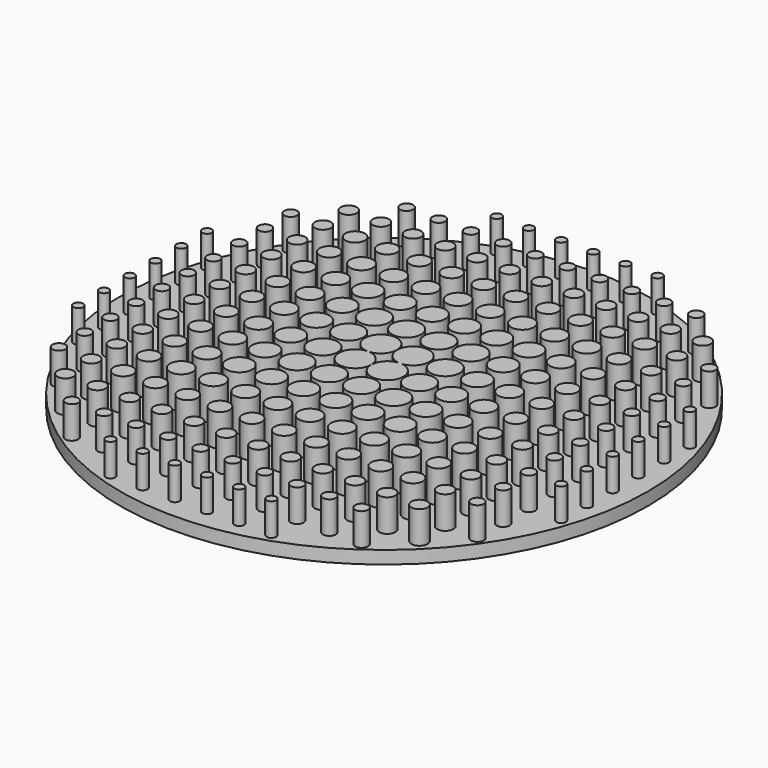
from build123d import *

# Parameters (mm, degrees)
F0_R     = 82
F1_DEPTH = 4
F2_R     = 5
F2_R_2   = 4.5
F2_R_3   = 4
F2_R_4   = 3.5
F2_R_5   = 3
F2_R_6   = 2.5
F2_R_7   = 2
F2_R_8   = 1.5
F3_DEPTH = 10
F4_R     = 5
F5_DEPTH = 10
F6_R     = 5
F7_DEPTH = 10
F9_DEPTH = 10


with BuildPart() as f1:
    # F0 (on Top) → F1 (new body)
    with BuildSketch(Plane.XY):
        Circle(F0_R)
    extrude(amount=-F1_DEPTH)

    # F2 (on face) → F3 (join)
    with BuildSketch(Plane.XY):
        with Locations((-5, 5)):
            Circle(F2_R)
        with Locations((-5, 15)):
            Circle(F2_R_2)
        with Locations((15, -5)):
            Circle(F2_R_2)
        with Locations((5, 15)):
            Circle(F2_R_2)
        with Locations((15, 5)):
            Circle(F2_R_2)
        with Locations((15, 15)):
            Circle(F2_R_2)
        with Locations((-15, 5)):
            Circle(F2_R_2)
        with Locations((-15, -5)):
            Circle(F2_R_2)
        with Locations((5, -15)):
            Circle(F2_R_2)
        with Locations((-5, -15)):
            Circle(F2_R_2)
        with Locations((-15, 15)):
            Circle(F2_R_2)
        with Locations((15, -15)):
            Circle(F2_R_2)
        with Locations((-15, -15)):
            Circle(F2_R_2)
        with Locations((-15, 25)):
            Circle(F2_R_3)
        with Locations((-5, 25)):
            Circle(F2_R_3)
        with Locations((5, 25)):
            Circle(F2_R_3)
        with Locations((15, 25)):
            Circle(F2_R_3)
        with Locations((25, 25)):
            Circle(F2_R_3)
        with Locations((-25, 25)):
            Circle(F2_R_3)
        with Locations((25, 15)):
            Circle(F2_R_3)
        with Locations((25, 5)):
            Circle(F2_R_3)
        with Locations((25, -5)):
            Circle(F2_R_3)
        with Locations((25, -15)):
            Circle(F2_R_3)
        with Locations((25, -25)):
            Circle(F2_R_3)
        with Locations((15, -25)):
            Circle(F2_R_3)
        with Locations((5, -25)):
            Circle(F2_R_3)
        with Locations((-5, -25)):
            Circle(F2_R_3)
        with Locations((-15, -25)):
            Circle(F2_R_3)
        with Locations((-25, -25)):
            Circle(F2_R_3)
        with Locations((-25, 15)):
            Circle(F2_R_3)
        with Locations((-25, 5)):
            Circle(F2_R_3)
        with Locations((-25, -5)):
            Circle(F2_R_3)
        with Locations((-25, -15)):
            Circle(F2_R_3)
        with Locations((-25, 35)):
            Circle(F2_R_4)
        with Locations((-15, 35)):
            Circle(F2_R_4)
        with Locations((-5, 35)):
            Circle(F2_R_4)
        with Locations((5, 35)):
            Circle(F2_R_4)
        with Locations((15, 35)):
            Circle(F2_R_4)
        with Locations((25, 35)):
            Circle(F2_R_4)
        with Locations((35, 35)):
            Circle(F2_R_4)
        with Locations((35, -15)):
            Circle(F2_R_4)
        with Locations((35, -5)):
            Circle(F2_R_4)
        with Locations((35, 5)):
            Circle(F2_R_4)
        with Locations((35, 15)):
            Circle(F2_R_4)
        with Locations((35, 25)):
            Circle(F2_R_4)
        with Locations((35, -25)):
            Circle(F2_R_4)
        with Locations((35, -35)):
            Circle(F2_R_4)
        with Locations((25, -35)):
            Circle(F2_R_4)
        with Locations((15, -35)):
            Circle(F2_R_4)
        with Locations((5, -35)):
            Circle(F2_R_4)
        with Locations((-5, -35)):
            Circle(F2_R_4)
        with Locations((-15, -35)):
            Circle(F2_R_4)
        with Locations((-25, -35)):
            Circle(F2_R_4)
        with Locations((-35, -35)):
            Circle(F2_R_4)
        with Locations((-35, -25)):
            Circle(F2_R_4)
        with Locations((-35, -15)):
            Circle(F2_R_4)
        with Locations((-35, -5)):
            Circle(F2_R_4)
        with Locations((-35, 5)):
            Circle(F2_R_4)
        with Locations((-35, 15)):
            Circle(F2_R_4)
        with Locations((-35, 25)):
            Circle(F2_R_4)
        with Locations((-35, 35)):
            Circle(F2_R_4)
        with Locations((-35, 45)):
            Circle(F2_R_5)
        with Locations((-25, 45)):
            Circle(F2_R_5)
        with Locations((-15, 45)):
            Circle(F2_R_5)
        with Locations((-5, 45)):
            Circle(F2_R_5)
        with Locations((5, 45)):
            Circle(F2_R_5)
        with Locations((15, 45)):
            Circle(F2_R_5)
        with Locations((25, 45)):
            Circle(F2_R_5)
        with Locations((35, 45)):
            Circle(F2_R_5)
        with Locations((45, 45)):
            Circle(F2_R_5)
        with Locations((45, -25)):
            Circle(F2_R_5)
        with Locations((45, -35)):
            Circle(F2_R_5)
        with Locations((45, -15)):
            Circle(F2_R_5)
        with Locations((45, -5)):
            Circle(F2_R_5)
        with Locations((45, 5)):
            Circle(F2_R_5)
        with Locations((45, 15)):
            Circle(F2_R_5)
        with Locations((45, 25)):
            Circle(F2_R_5)
        with Locations((45, 35)):
            Circle(F2_R_5)
        with Locations((45, -45)):
            Circle(F2_R_5)
        with Locations((35, -45)):
            Circle(F2_R_5)
        with Locations((25, -45)):
            Circle(F2_R_5)
        with Locations((15, -45)):
            Circle(F2_R_5)
        with Locations((5, -45)):
            Circle(F2_R_5)
        with Locations((-5, -45)):
            Circle(F2_R_5)
        with Locations((-15, -45)):
            Circle(F2_R_5)
        with Locations((-25, -45)):
            Circle(F2_R_5)
        with Locations((-35, -45)):
            Circle(F2_R_5)
        with Locations((-45, -45)):
            Circle(F2_R_5)
        with Locations((-45, -35)):
            Circle(F2_R_5)
        with Locations((-45, -25)):
            Circle(F2_R_5)
        with Locations((-45, -15)):
            Circle(F2_R_5)
        with Locations((-45, -5)):
            Circle(F2_R_5)
        with Locations((-45, 5)):
            Circle(F2_R_5)
        with Locations((-45, 15)):
            Circle(F2_R_5)
        with Locations((-45, 25)):
            Circle(F2_R_5)
        with Locations((-45, 35)):
            Circle(F2_R_5)
        with Locations((-45, 45)):
            Circle(F2_R_5)
        with Locations((-45, 55)):
            Circle(F2_R_6)
        with Locations((-35, 55)):
            Circle(F2_R_6)
        with Locations((-25, 55)):
            Circle(F2_R_6)
        with Locations((-15, 55)):
            Circle(F2_R_6)
        with Locations((-5, 55)):
            Circle(F2_R_6)
        with Locations((5, 55)):
            Circle(F2_R_6)
        with Locations((15, 55)):
            Circle(F2_R_6)
        with Locations((25, 55)):
            Circle(F2_R_6)
        with Locations((35, 55)):
            Circle(F2_R_6)
        with Locations((45, 55)):
            Circle(F2_R_6)
        with Locations((55, 55)):
            Circle(F2_R_6)
        with Locations((55, -35)):
            Circle(F2_R_6)
        with Locations((55, -25)):
            Circle(F2_R_6)
        with Locations((55, -45)):
            Circle(F2_R_6)
        with Locations((55, -15)):
            Circle(F2_R_6)
        with Locations((55, -5)):
            Circle(F2_R_6)
        with Locations((55, 5)):
            Circle(F2_R_6)
        with Locations((55, 15)):
            Circle(F2_R_6)
        with Locations((55, 25)):
            Circle(F2_R_6)
        with Locations((55, 35)):
            Circle(F2_R_6)
        with Locations((55, 45)):
            Circle(F2_R_6)
        with Locations((55, -55)):
            Circle(F2_R_6)
        with Locations((45, -55)):
            Circle(F2_R_6)
        with Locations((35, -55)):
            Circle(F2_R_6)
        with Locations((25, -55)):
            Circle(F2_R_6)
        with Locations((15, -55)):
            Circle(F2_R_6)
        with Locations((5, -55)):
            Circle(F2_R_6)
        with Locations((-5, -55)):
            Circle(F2_R_6)
        with Locations((-15, -55)):
            Circle(F2_R_6)
        with Locations((-25, -55)):
            Circle(F2_R_6)
        with Locations((-35, -55)):
            Circle(F2_R_6)
        with Locations((-45, -55)):
            Circle(F2_R_6)
        with Locations((-55, -55)):
            Circle(F2_R_6)
        with Locations((-55, -45)):
            Circle(F2_R_6)
        with Locations((-55, -35)):
            Circle(F2_R_6)
        with Locations((-55, -25)):
            Circle(F2_R_6)
        with Locations((-55, -15)):
            Circle(F2_R_6)
        with Locations((-55, 5)):
            Circle(F2_R_6)
        with Locations((-55, -5)):
            Circle(F2_R_6)
        with Locations((-55, 15)):
            Circle(F2_R_6)
        with Locations((-55, 25)):
            Circle(F2_R_6)
        with Locations((-55, 35)):
            Circle(F2_R_6)
        with Locations((-55, 45)):
            Circle(F2_R_6)
        with Locations((-55, 55)):
            Circle(F2_R_6)
        with Locations((-65, -45)):
            Circle(F2_R_7)
        with Locations((-45, -65)):
            Circle(F2_R_7)
        with Locations((-35, -65)):
            Circle(F2_R_7)
        with Locations((-25, -65)):
            Circle(F2_R_7)
        with Locations((-15, -65)):
            Circle(F2_R_7)
        with Locations((-5, -65)):
            Circle(F2_R_7)
        with Locations((5, -65)):
            Circle(F2_R_7)
        with Locations((15, -65)):
            Circle(F2_R_7)
        with Locations((25, -65)):
            Circle(F2_R_7)
        with Locations((35, -65)):
            Circle(F2_R_7)
        with Locations((45, -65)):
            Circle(F2_R_7)
        with Locations((-65, -35)):
            Circle(F2_R_7)
        with Locations((-65, -25)):
            Circle(F2_R_7)
        with Locations((-65, -15)):
            Circle(F2_R_7)
        with Locations((-65, -5)):
            Circle(F2_R_7)
        with Locations((-65, 5)):
            Circle(F2_R_7)
        with Locations((-65, 15)):
            Circle(F2_R_7)
        with Locations((-65, 25)):
            Circle(F2_R_7)
        with Locations((-65, 35)):
            Circle(F2_R_7)
        with Locations((-65, 45)):
            Circle(F2_R_7)
        with Locations((-45, 65)):
            Circle(F2_R_7)
        with Locations((-35, 65)):
            Circle(F2_R_7)
        with Locations((-25, 65)):
            Circle(F2_R_7)
        with Locations((-15, 65)):
            Circle(F2_R_7)
        with Locations((-5, 65)):
            Circle(F2_R_7)
        with Locations((5, 65)):
            Circle(F2_R_7)
        with Locations((15, 65)):
            Circle(F2_R_7)
        with Locations((25, 65)):
            Circle(F2_R_7)
        with Locations((35, 65)):
            Circle(F2_R_7)
        with Locations((45, 65)):
            Circle(F2_R_7)
        with Locations((65, -45)):
            Circle(F2_R_7)
        with Locations((65, -35)):
            Circle(F2_R_7)
        with Locations((65, -25)):
            Circle(F2_R_7)
        with Locations((65, -15)):
            Circle(F2_R_7)
        with Locations((65, -5)):
            Circle(F2_R_7)
        with Locations((65, 5)):
            Circle(F2_R_7)
        with Locations((65, 15)):
            Circle(F2_R_7)
        with Locations((65, 25)):
            Circle(F2_R_7)
        with Locations((65, 35)):
            Circle(F2_R_7)
        with Locations((65, 45)):
            Circle(F2_R_7)
        with Locations((-25, 75)):
            Circle(F2_R_8)
        with Locations((-15, 75)):
            Circle(F2_R_8)
        with Locations((-5, 75)):
            Circle(F2_R_8)
        with Locations((5, 75)):
            Circle(F2_R_8)
        with Locations((15, 75)):
            Circle(F2_R_8)
        with Locations((25, 75)):
            Circle(F2_R_8)
        with Locations((75, -25)):
            Circle(F2_R_8)
        with Locations((75, -15)):
            Circle(F2_R_8)
        with Locations((75, -5)):
            Circle(F2_R_8)
        with Locations((75, 5)):
            Circle(F2_R_8)
        with Locations((75, 15)):
            Circle(F2_R_8)
        with Locations((25, -75)):
            Circle(F2_R_8)
        with Locations((15, -75)):
            Circle(F2_R_8)
        with Locations((5, -75)):
            Circle(F2_R_8)
        with Locations((-5, -75)):
            Circle(F2_R_8)
        with Locations((-15, -75)):
            Circle(F2_R_8)
        with Locations((-25, -75)):
            Circle(F2_R_8)
        with Locations((-75, -25)):
            Circle(F2_R_8)
        with Locations((-75, -15)):
            Circle(F2_R_8)
        with Locations((-75, -5)):
            Circle(F2_R_8)
        with Locations((-75, 5)):
            Circle(F2_R_8)
        with Locations((-75, 15)):
            Circle(F2_R_8)
        with Locations((-75, 25)):
            Circle(F2_R_8)
        with Locations((75, 25)):
            Circle(F2_R_8)
    extrude(amount=F3_DEPTH)

    # F4 (on face) → F5 (join)
    with BuildSketch(Plane.XY):
        with Locations((5.0316731084, 4.968125239)):
            Circle(F4_R)
    extrude(amount=F5_DEPTH)

    # F6 (on face) → F7 (join)
    with BuildSketch(Plane.XY):
        with Locations((-5, -4.99)):
            Circle(F6_R)
    extrude(amount=F7_DEPTH)

    # F8 (on face) → F9 (join)
    with BuildSketch(Plane.XY):
        with BuildLine():
            ThreePointArc((0, -4.9238137815), (4.9616199164, -9.9992852643), (9.9994282131, -4.9994282131))
            ThreePointArc((9.9994282131, -4.9994282131), (8.561595542, -1.4907298902), (5.0750426447, 0))
            Line((5.0750426447, 0), (4.9994282131, -4.9994282131))
            Line((4.9994282131, -4.9994282131), (0, -4.9238137815))
        make_face()
        with BuildLine():
            Line((4.9994282131, -4.9994282131), (5.0750426447, 0))
            ThreePointArc((5.0750426447, 0), (1.5177660989, -1.4108311442), (0, -4.9238137815))
            Line((0, -4.9238137815), (4.9994282131, -4.9994282131))
        make_face()
    extrude(amount=F9_DEPTH)


solid = f1.part
